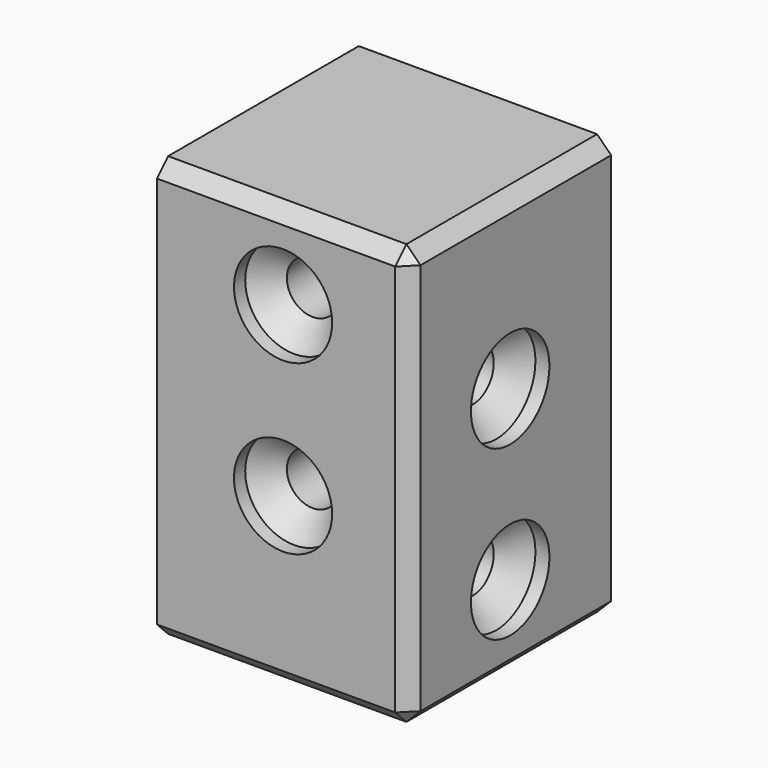
from build123d import *

# Parameters (mm, degrees)
F0_W           = 18
F0_H           = 30
F1_DEPTH       = 18
F4_D           = 7
F4_DEPTH       = 1.001
F5_D           = 3.7
F5_CSINK_D     = 7
F5_CSINK_ANGLE = 90
F8_D           = 7
F8_DEPTH       = 1.001
F9_D           = 3.7
F9_CSINK_D     = 7
F9_CSINK_ANGLE = 90
F10_SIZE       = 1


with BuildPart() as f1:
    # F0 (on Front) → F1 (new body)
    with BuildSketch(Plane.XZ):
        with Locations((0, 15)):
            Rectangle(F0_W, F0_H)
    extrude(amount=F1_DEPTH)

    # F4 (through all, one way)
    with BuildSketch(Plane(origin=(0, -17, 0), x_dir=(1, 0, 0), z_dir=(0, 1, 0))):
        with Locations((0, -24), (0, -12)):
            Circle(F4_D / 2)
    extrude(amount=-F4_DEPTH, mode=Mode.SUBTRACT)

    # F5 (through all)
    with Locations(Plane.XZ.offset(17)):
        with Locations((0, 24), (0, 12)):
            CounterSinkHole(F5_D / 2, F5_CSINK_D / 2, counter_sink_angle=F5_CSINK_ANGLE)

    # F8 (through all, one way)
    with BuildSketch(Plane(origin=(8, 0, 0), x_dir=(0, 1, 0), z_dir=(-1, 0, 0))):
        with Locations((-9, -18), (-9, -6)):
            Circle(F8_D / 2)
    extrude(amount=-F8_DEPTH, mode=Mode.SUBTRACT)

    # F9 (through all)
    with Locations(Plane.YZ.offset(8)):
        with Locations((-9, 18), (-9, 6)):
            CounterSinkHole(F9_D / 2, F9_CSINK_D / 2, counter_sink_angle=F9_CSINK_ANGLE)

    # F10
    f10_edges = [f1.edges().sort_by_distance(p)[0] for p in [
        (9, -18, 15),
        (9, -9, 30),
        (0, -18, 30),
        (9, -9, 0),
        (0, -18, 0),
    ]]
    chamfer(f10_edges, length=F10_SIZE)


solid = f1.part
